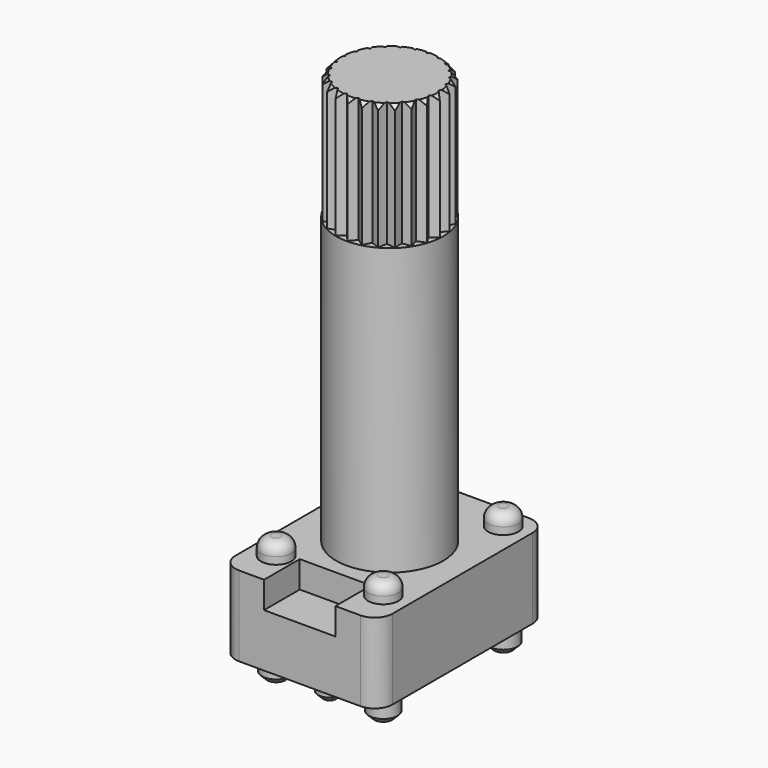
from build123d import *

# Parameters (mm, degrees)
SKETCH_W           = 8.8
SKETCH_H           = 11.8
PAD_DEPTH          = 4.48
FILLET_R           = 1
SKETCH001_R        = 0.85
PAD001_DEPTH       = 1
FILLET001_R        = 0.6
SKETCH002_R        = 3
PAD002_DEPTH       = 23
CHAMFER_SIZE       = 0.3
POCKET_DEPTH       = 7
POLARPATTERN_COUNT = 25
SKETCH004_R        = 0.8
SKETCH004_R_2      = 0.65
PAD003_DEPTH       = 1.5
CHAMFER001_SIZE    = 0.3
SKETCH010_W        = 4
SKETCH010_H        = 1.5
POCKET004_DEPTH    = 2.5


with BuildPart() as part:
    # Sketch → Pad (new body)
    with BuildSketch(Plane.XY):
        with Locations((0, -0.4)):
            Rectangle(SKETCH_W, SKETCH_H)
    extrude(amount=-PAD_DEPTH)

    # Fillet
    fillet_edges = [part.edges().sort_by_distance(p)[0] for p in [
        (-4.4, 5.5, -2.24),
        (-4.4, -6.3, -2.24),
        (4.4, -6.3, -2.24),
        (4.4, 5.5, -2.24),
    ]]
    fillet(fillet_edges, radius=FILLET_R)

    # Sketch001 (on Face2 of Fillet) → Pad001 (join)
    with BuildSketch(Plane.XY):
        with Locations((-3, 4.2)):
            Circle(SKETCH001_R)
        with Locations((3, 4.2)):
            Circle(SKETCH001_R)
        with Locations((3, -4.2)):
            Circle(SKETCH001_R)
        with Locations((-3, -4.2)):
            Circle(SKETCH001_R)
    extrude(amount=PAD001_DEPTH)

    # Fillet001
    fillet001_edges = [part.edges().sort_by_distance(p)[0] for p in [
        (-3.85, -4.2, 1),
        (-3.85, 4.2, 1),
        (2.15, 4.2, 1),
        (2.15, -4.2, 1),
    ]]
    fillet(fillet001_edges, radius=FILLET001_R)

    # Sketch002 (on Face3 of Fillet001) → Pad002 (join)
    with BuildSketch(Plane.XY):
        Circle(SKETCH002_R)
    extrude(amount=PAD002_DEPTH)

    # Chamfer
    chamfer_edges = [part.edges().sort_by_distance(p)[0] for p in [
        (-3, 0, 23),
    ]]
    chamfer(chamfer_edges, length=CHAMFER_SIZE)

    # Sketch003 (on Face20 of Pad002) → Pocket (cut)
    with BuildSketch(Plane.XY.offset(23)):
        Polygon((-0.55, 3.1), (0, 2.6), (0.55, 3.1), align=None)
    pocket = extrude(amount=-POCKET_DEPTH, mode=Mode.SUBTRACT)

    # PolarPattern: Pocket ×25 about axis
    polarpattern_axis = Axis((0, 0, 23), (0, 0, 1))
    for i in range(1, POLARPATTERN_COUNT):
        add(pocket.rotate(polarpattern_axis, i * 360 / POLARPATTERN_COUNT), mode=Mode.SUBTRACT)

    # Sketch004 (on Face126 of PolarPattern) → Pad003 (join)
    with BuildSketch(Plane(origin=(0, 0, -4.48), x_dir=(1, 0, 0), z_dir=(0, 0, -1))):
        with Locations((-3, 4.2)):
            Circle(SKETCH004_R)
        with Locations((3, 4.2)):
            Circle(SKETCH004_R)
        with Locations((3, -4.2)):
            Circle(SKETCH004_R)
        with Locations((-3, -4.2)):
            Circle(SKETCH004_R)
        with Locations((0, -4.2)):
            Circle(SKETCH004_R_2)
        with Locations((0, 4.2)):
            Circle(SKETCH004_R_2)
    extrude(amount=PAD003_DEPTH)

    # Chamfer001
    chamfer001_edges = [part.edges().sort_by_distance(p)[0] for p in [
        (2.2, -4.2, -5.98),
        (-0.65, -4.2, -5.98),
        (-3.8, -4.2, -5.98),
        (-3.8, 4.2, -5.98),
        (-0.65, 4.2, -5.98),
        (2.2, 4.2, -5.98),
    ]]
    chamfer(chamfer001_edges, length=CHAMFER001_SIZE)

    # Sketch010 (on Face12 of Chamfer001) → Pocket004 (cut)
    with BuildSketch(Plane.XZ.offset(6.3)):
        with Locations((0, -0.75)):
            Rectangle(SKETCH010_W, SKETCH010_H)
    extrude(amount=-POCKET004_DEPTH, mode=Mode.SUBTRACT)


solid = part.part
